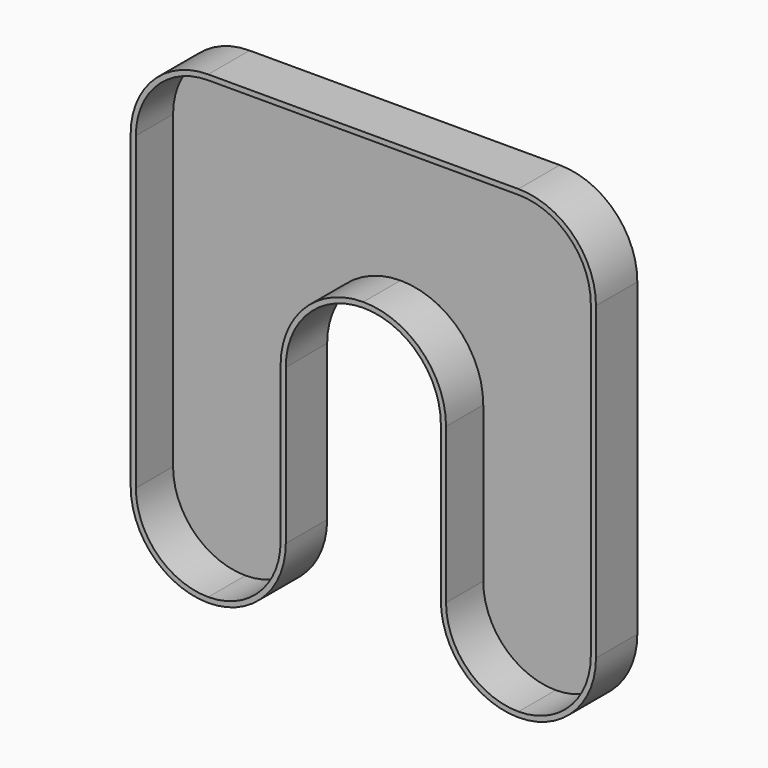
from build123d import *

# Parameters (mm, degrees)
F1_DEPTH = 10
F2_T     = -1


with BuildPart() as f1:
    # F0 (on Front) → F1 (new body)
    with BuildSketch(Plane.XZ):
        with BuildLine():
            ThreePointArc((45, 30), (40.606602, 40.606602), (30, 45))
            Line((30, 45), (-30, 45))
            ThreePointArc((-30, 45), (-40.606602, 40.606602), (-45, 30))
            Line((-45, 30), (-45, -30))
            ThreePointArc((-45, -30), (-40.606602, -40.606602), (-30, -45))
            ThreePointArc((-30, -45), (-19.393398, -40.606602), (-15, -30))
            Line((-15, -30), (-15, 0))
            ThreePointArc((-15, 0), (-10.606602, 10.606602), (0, 15))
            ThreePointArc((0, 15), (10.606602, 10.606602), (15, 0))
            Line((15, 0), (15, -30))
            ThreePointArc((15, -30), (19.393398, -40.606602), (30, -45))
            ThreePointArc((30, -45), (40.606602, -40.606602), (45, -30))
            Line((45, -30), (45, 30))
        make_face()
    extrude(amount=F1_DEPTH)

    # F2
    f2_openings = [f1.faces().sort_by_distance(p)[0] for p in [
        (43.727208, -10, 0),
    ]]
    offset(amount=F2_T, openings=f2_openings)


solid = f1.part
